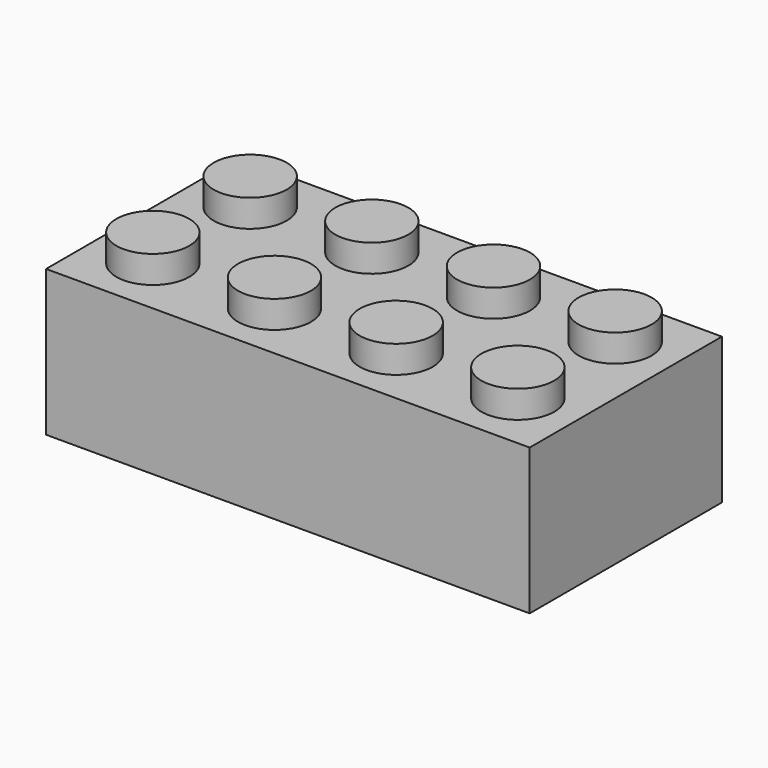
from build123d import *

# Parameters (mm, degrees)
F0_W     = 807.72
F0_H     = 401.32
F2_DEPTH = 243.84
F1_R     = 60.96
F3_DEPTH = 45.72
F4_W     = 746.76
F4_H     = 340.36
F5_DEPTH = 213.36
F6_R     = 82.55
F6_R_2   = 60.96
F7_DEPTH = 213.36


with BuildPart() as f2:
    # F0 (on Top) → F2 (new body)
    with BuildSketch(Plane.XY):
        Rectangle(F0_W, F0_H)
    extrude(amount=-F2_DEPTH)

    # F1 (on Top) → F3 (join)
    with BuildSketch(Plane.XY):
        with Locations((-304.8, 101.6)):
            Circle(F1_R)
        with Locations((-101.6, 101.6)):
            Circle(F1_R)
        with Locations((101.6, 101.6)):
            Circle(F1_R)
        with Locations((304.8, 101.6)):
            Circle(F1_R)
        with Locations((304.8, -101.6)):
            Circle(F1_R)
        with Locations((101.6, -101.6)):
            Circle(F1_R)
        with Locations((-101.6, -101.6)):
            Circle(F1_R)
        with Locations((-304.8, -101.6)):
            Circle(F1_R)
    extrude(amount=F3_DEPTH)

    # F4 (on face) → F5 (cut)
    with BuildSketch(Plane(origin=(0, 0, -243.84), x_dir=(1, 0, 0), z_dir=(0, 0, -1))):
        Rectangle(F4_W, F4_H)
    extrude(amount=-F5_DEPTH, mode=Mode.SUBTRACT)

    # F6 (on face) → F7 (join)
    with BuildSketch(Plane(origin=(0, 0, -30.48), x_dir=(1, 0, 0), z_dir=(0, 0, -1))):
        with Locations((-203.2, 0)):
            Circle(F6_R)
        with Locations((-203.2, 0)):
            Circle(F6_R_2, mode=Mode.SUBTRACT)
        Circle(F6_R)
        Circle(F6_R_2, mode=Mode.SUBTRACT)
        with Locations((203.2, 0)):
            Circle(F6_R)
        with Locations((203.2, 0)):
            Circle(F6_R_2, mode=Mode.SUBTRACT)
    extrude(amount=F7_DEPTH)


solid = f2.part
